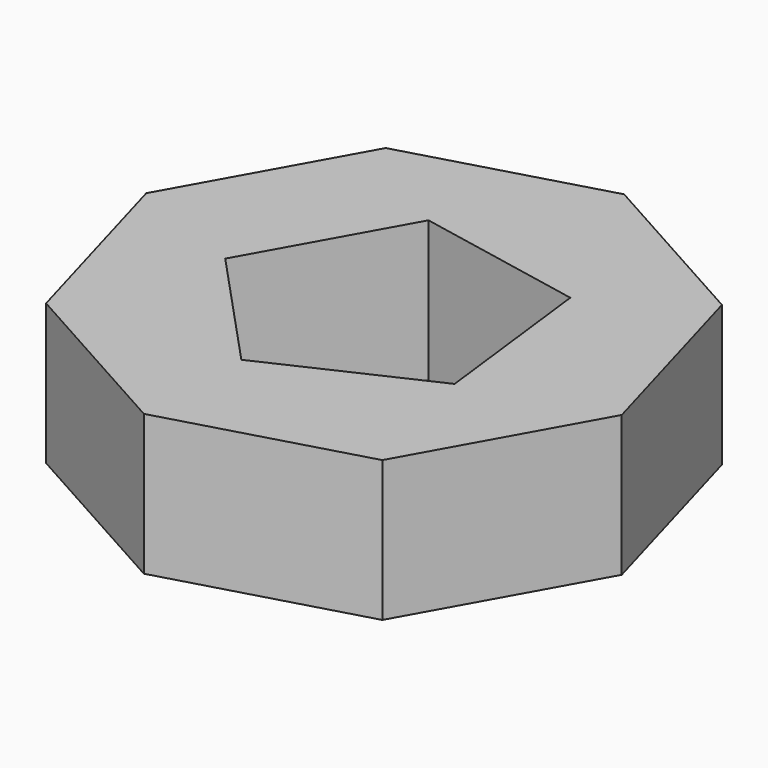
from build123d import *

# Parameters (mm, degrees)
F1_DEPTH = 8


with BuildPart() as f1:
    # F0 (on Top) → F1 (new body)
    with BuildSketch(Plane.XY):
        Polygon((-9.311619, 11.759837), (-14.899769, 1.731152), (-11.759837, -9.311619), (-1.731152, -14.899769), (9.311619, -11.759837), (14.899769, -1.731152), (11.759837, 9.311619), (1.731152, 14.899769), align=None)
        Polygon((-1.600227, -8.135918), (-8.232215, -0.992231), (-3.487562, 7.522685), (6.076783, 5.641506), (7.24322, -4.036043), align=None, mode=Mode.SUBTRACT)
    extrude(amount=F1_DEPTH)


solid = f1.part
